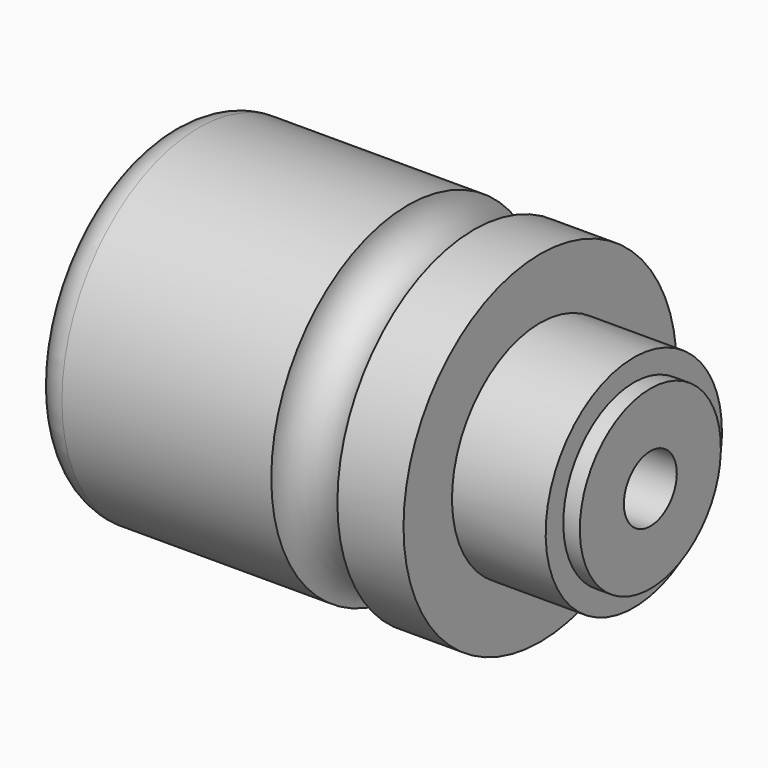
from build123d import *

# Parameters (mm, degrees)
F0_W   = 3
F0_H   = 16
F2_W   = 3
F2_H   = 12.4045886115
F2_W_2 = 58
F2_H_2 = 6


with BuildPart() as f1:
    # F0 (on Front) → F1 (revolve)
    with BuildSketch(Plane.XZ):
        with BuildLine():
            Line((0, 25), (0, 0))
            Line((0, 0), (44, 0))
            Line((44, 0), (44, 31))
            Line((44, 31), (6, 31))
            ThreePointArc((6, 31), (1.7573593129, 29.2426406871), (0, 25))
        make_face()
        with BuildLine():
            Line((44, 31), (44, 0))
            Line((44, 0), (56, 0))
            Line((56, 0), (56, 31))
            ThreePointArc((56, 31), (50, 25), (44, 31))
        make_face()
        Polygon((56, 31), (56, 0), (68, 0), (68, 20), (68, 31), align=None)
        Polygon((68, 20), (68, 0), (85, 0), (85, 16), (85, 20), align=None)
        with Locations((86.5, 8)):
            Rectangle(F0_W, F0_H)
    revolve(axis=Axis((44, 0, 0), (1, 0, 0)))

    # F2 (on Front) → F3 (revolve, cut)
    with BuildSketch(Plane.XZ):
        Polygon((0, 25), (0, 0), (1.5, 0), (1.5, 16), (1.5, 25), align=None)
        Polygon((1.5, 16), (1.5, 0), (12, 0), (12, 12.4045886115), (12, 16), align=None)
        with Locations((13.5, 6.2022943057)):
            Rectangle(F2_W, F2_H)
        Polygon((15, 12.4045886115), (15, 0), (22, 0), (22, 16), (22, 20.5), (15, 20.5), align=None)
        Polygon((22, 16), (22, 0), (30, 0), (30, 6), (30, 16), align=None)
        with Locations((59, 3)):
            Rectangle(F2_W_2, F2_H_2)
    revolve(axis=Axis((44, 0, 0), (1, 0, 0)), mode=Mode.SUBTRACT)


solid = f1.part
